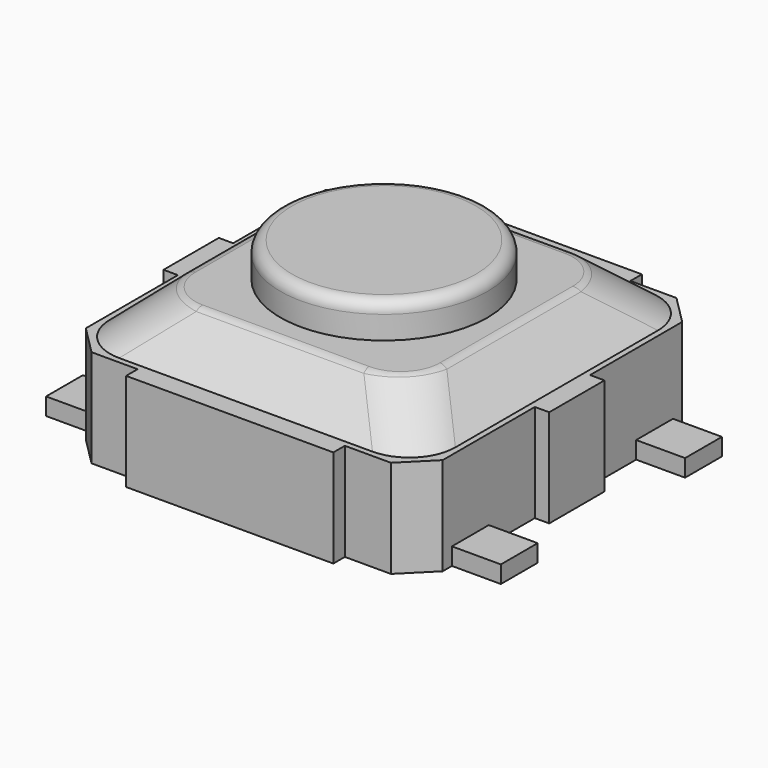
from build123d import *

# Parameters (mm, degrees)
PAD_DEPTH    = 0.85
PAD001_DEPTH = 0.85
SKETCH004_R  = 0.9
PAD002_DEPTH = 0.3
FILLET_R     = 0.1
SKETCH005_W  = 0.725
SKETCH005_H  = 0.4
PAD003_DEPTH = 0.15


with BuildPart() as part:
    # Sketch → Pad (new body)
    with BuildSketch(Plane.XY):
        Polygon((-1.3, -1.55), (1.3, -1.55), (1.55, -1.3), (1.55, 1.3), (1.3, 1.55), (-1.3, 1.55), (-1.55, 1.3), (-1.55, -1.3), align=None)
    extrude(amount=-PAD_DEPTH)

    # Sketch001 → Pad001 (join)
    with BuildSketch(Plane.XY):
        Polygon((-0.9, -1.675), (0.9, -1.675), (0.9, -0.3), (1.675, -0.3), (1.675, 0.3), (0.9, 0.3), (0.9, 1.675), (-0.9, 1.675), (-0.9, 0.3), (-1.675, 0.3), (-1.675, -0.3), (-0.9, -0.3), align=None)
    extrude(amount=-PAD001_DEPTH)

    # Sketch003 → AdditiveLoft section 0
    with BuildSketch(Plane.XY.offset(0.35)):
        with BuildLine():
            Line((-1.1, 0.7), (-1.1, -0.7))
            ThreePointArc((-1.1, -0.7), (-0.982843, -0.982843), (-0.7, -1.1))
            Line((-0.7, -1.1), (0.7, -1.1))
            ThreePointArc((0.7, -1.1), (0.982843, -0.982843), (1.1, -0.7))
            Line((1.1, -0.7), (1.1, 0.7))
            ThreePointArc((1.1, 0.7), (0.982843, 0.982843), (0.7, 1.1))
            Line((0.7, 1.1), (-0.7, 1.1))
            ThreePointArc((-0.7, 1.1), (-0.982843, 0.982843), (-1.1, 0.7))
        make_face()
    # Sketch002 → AdditiveLoft section 1
    with BuildSketch(Plane.XY):
        with BuildLine():
            Line((-1.5, 1.1), (-1.5, -1.1))
            ThreePointArc((-1.5, -1.1), (-1.382843, -1.382843), (-1.1, -1.5))
            Line((-1.1, -1.5), (1.1, -1.5))
            ThreePointArc((1.1, -1.5), (1.382843, -1.382843), (1.5, -1.1))
            Line((1.5, -1.1), (1.5, 1.1))
            ThreePointArc((1.5, 1.1), (1.382843, 1.382843), (1.1, 1.5))
            Line((1.1, 1.5), (-1.1, 1.5))
            ThreePointArc((-1.1, 1.5), (-1.382843, 1.382843), (-1.5, 1.1))
        make_face()
    loft()

    # Sketch004 → Pad002 (join)
    with BuildSketch(Plane.XY.offset(0.35)):
        Circle(SKETCH004_R)
    extrude(amount=PAD002_DEPTH)

    # Fillet
    fillet_edges = [part.edges().sort_by_distance(p)[0] for p in [
        (-0.9, 0, 0.65),
        (0, -1.1, 0.35),
    ]]
    fillet(fillet_edges, radius=FILLET_R)

    # Sketch005 → Pad003 (join)
    with BuildSketch(Plane.XY.offset(-0.85)):
        with Locations((-1.6125, 1)):
            Rectangle(SKETCH005_W, SKETCH005_H)
        with Locations((-1.6125, -1)):
            Rectangle(SKETCH005_W, SKETCH005_H)
        with Locations((1.6125, -1)):
            Rectangle(SKETCH005_W, SKETCH005_H)
        with Locations((1.6125, 1)):
            Rectangle(SKETCH005_W, SKETCH005_H)
    extrude(amount=PAD003_DEPTH)


solid = part.part
